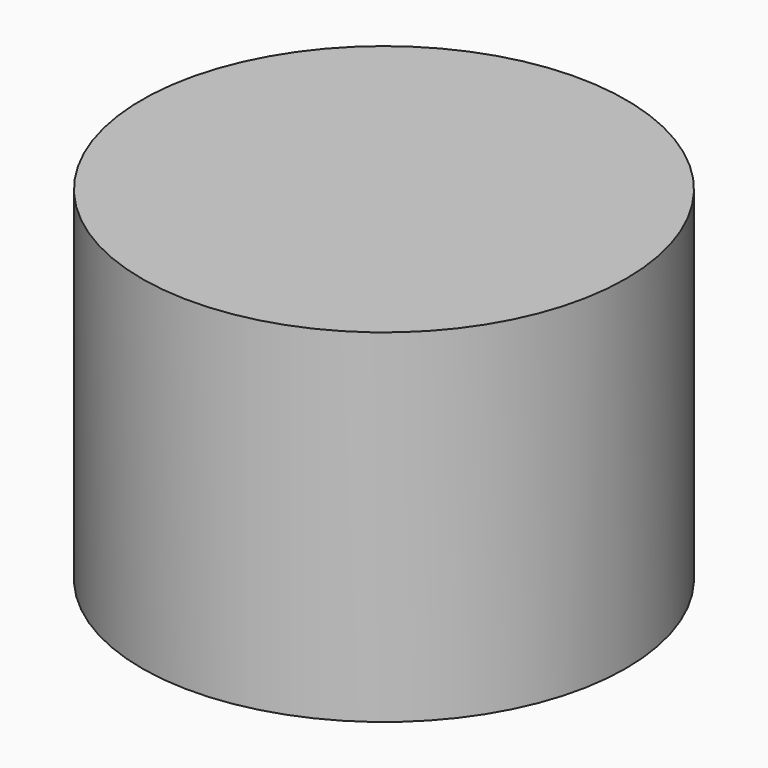
from build123d import *

# Parameters (mm, degrees)
F0_R     = 76.2
F1_DEPTH = 107.95
F2_R     = 15.820563
F3_DEPTH = 235.204
F4_R     = 29.432713
F5_DEPTH = 293.116


with BuildPart() as f1:
    # F0 (on Top) → F1 (new body)
    with BuildSketch(Plane.XY):
        Circle(F0_R)
    extrude(amount=F1_DEPTH)

    # F2 (on Top) → F3 (cut)
    with BuildSketch(Plane.XY):
        with Locations((-136.144727, 109.994054)):
            Circle(F2_R)
    extrude(amount=-F3_DEPTH, mode=Mode.SUBTRACT)

    # F4 (on Top) → F5 (cut)
    with BuildSketch(Plane.XY):
        Circle(F4_R)
    extrude(amount=-F5_DEPTH, mode=Mode.SUBTRACT)


solid = f1.part
